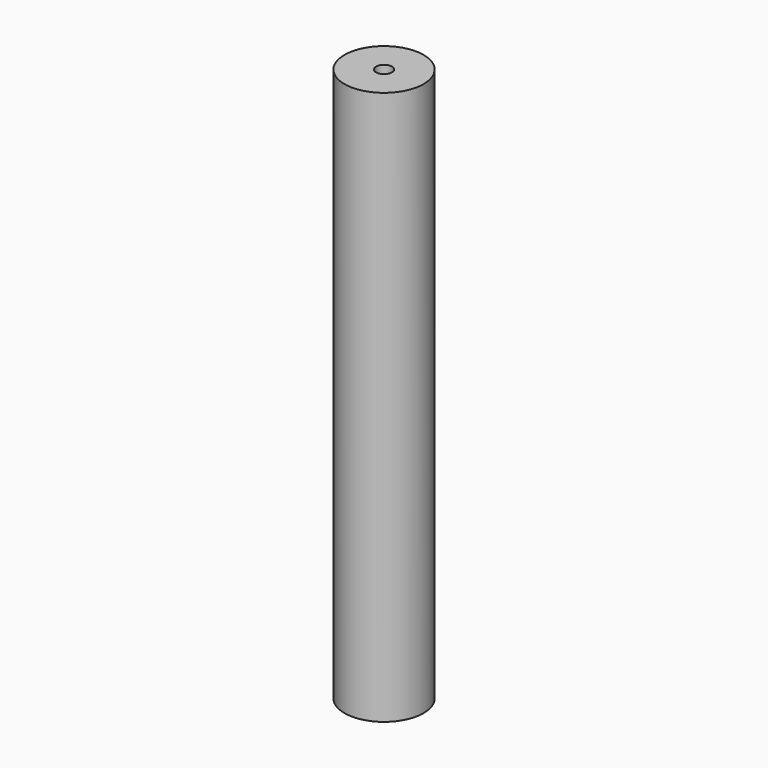
from build123d import *

# Parameters (mm, degrees)
F0_R      = 25
F0_R_2    = 21
F1_DEPTH  = 10
F2_R      = 25
F3_DEPTH  = 10
F4_R      = 25
F4_R_2    = 21
F5_DEPTH  = 320
F6_R      = 25
F7_DEPTH  = 10
F8_R      = 5
F9_DEPTH  = 10
F10_R     = 5
F11_DEPTH = 10


with BuildPart() as f1:
    # F0 (on Top) → F1 (new body)
    with BuildSketch(Plane.XY):
        Circle(F0_R)
        Circle(F0_R_2, mode=Mode.SUBTRACT)
    extrude(amount=F1_DEPTH)

    # F2 (on face) → F3 (join)
    with BuildSketch(Plane.XY.offset(10)):
        Circle(F2_R)
    extrude(amount=F3_DEPTH)

    # F4 (on face) → F5 (join)
    with BuildSketch(Plane.XY.offset(20)):
        Circle(F4_R)
        Circle(F4_R_2, mode=Mode.SUBTRACT)
    extrude(amount=F5_DEPTH)

    # F6 (on face) → F7 (join)
    with BuildSketch(Plane.XY.offset(340)):
        Circle(F6_R)
    extrude(amount=F7_DEPTH)

    # F8 (on face) → F9 (cut)
    with BuildSketch(Plane(origin=(0, 0, 10), x_dir=(1, 0, 0), z_dir=(0, 0, -1))):
        Circle(F8_R)
    extrude(amount=-F9_DEPTH, mode=Mode.SUBTRACT)

    # F10 (on face) → F11 (cut)
    with BuildSketch(Plane.XY.offset(350)):
        Circle(F10_R)
    extrude(amount=-F11_DEPTH, mode=Mode.SUBTRACT)


solid = f1.part
